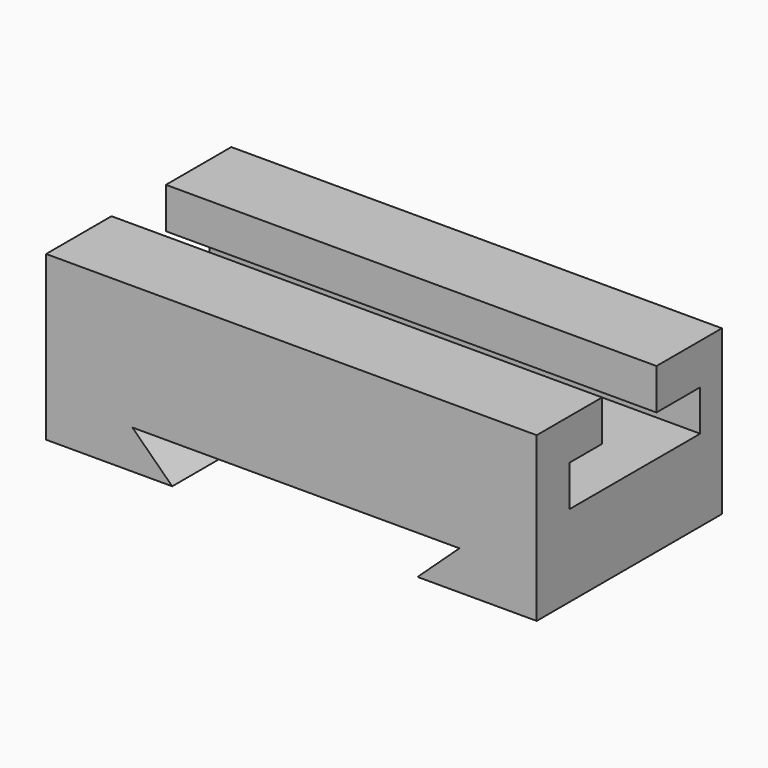
from build123d import *

# Parameters (mm, degrees)
F1_DEPTH = 152.4
F2_DEPTH = 152.4
F4_DEPTH = 76.2


with BuildPart() as f1:
    # F0 (on Right) → F1 (new body)
    with BuildSketch(Plane.YZ):
        Polygon((-8.67072, 38.735581), (-34.07072, 38.735581), (-34.07072, -12.064419), (37.848741, -12.064419), (37.848741, 38.735581), (12.448741, 38.735581), (12.448741, 26.035581), (29.42928, 26.035581), (29.42928, 13.335581), (-21.37072, 13.335581), (-21.37072, 26.035581), (-8.67072, 26.035581), align=None)
    extrude(amount=-F1_DEPTH)

    # F0 (on Right) → F2 (join)
    with BuildSketch(Plane.YZ):
        Polygon((-8.67072, 38.735581), (-34.07072, 38.735581), (-34.07072, -12.064419), (37.848741, -12.064419), (37.848741, 38.735581), (12.448741, 38.735581), (12.448741, 26.035581), (29.42928, 26.035581), (29.42928, 13.335581), (-21.37072, 13.335581), (-21.37072, 26.035581), (-8.67072, 26.035581), align=None)
    extrude(amount=-F2_DEPTH)

    # F3 (on face) → F4 (cut)
    with BuildSketch(Plane.XZ.offset(34.07072)):
        Polygon((-125.592947, 0), (-113.217302, -12.064419), (-37.017302, -12.064419), (-23.992947, 0), align=None)
    extrude(amount=-F4_DEPTH, mode=Mode.SUBTRACT)


solid = f1.part
